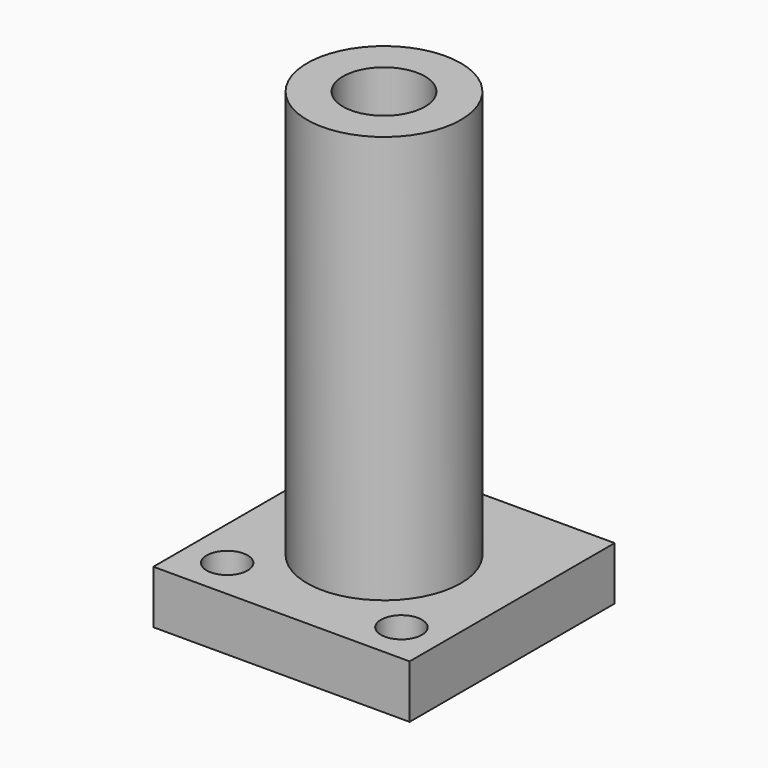
from build123d import *

# Parameters (mm, degrees)
CYLINDER033_R     = 2
CYLINDER033_DEPTH = 10
CYLINDER031_R     = 2
CYLINDER031_DEPTH = 10
CYLINDER030_R     = 2
CYLINDER030_DEPTH = 10
CYLINDER029_R     = 4
CYLINDER029_DEPTH = 60
CYLINDER034_R     = 7.5
CYLINDER034_DEPTH = 40
BOX006_W          = 25
BOX006_H          = 25
BOX006_DEPTH      = 5.2


with BuildPart() as cylinder033:
    # Cylinder033 → Cylinder033 (new body)
    with BuildSketch(Plane(origin=(21, 4, -2), x_dir=(1, 0, 0), z_dir=(0, 0, 1))):
        Circle(CYLINDER033_R)
    extrude(amount=CYLINDER033_DEPTH)


with BuildPart() as cylinder031:
    # Cylinder031 → Cylinder031 (new body)
    with BuildSketch(Plane(origin=(4, 21, -2), x_dir=(1, 0, 0), z_dir=(0, 0, 1))):
        Circle(CYLINDER031_R)
    extrude(amount=CYLINDER031_DEPTH)


with BuildPart() as cylinder030:
    # Cylinder030 → Cylinder030 (new body)
    with BuildSketch(Plane(origin=(4, 4, -2), x_dir=(1, 0, 0), z_dir=(0, 0, 1))):
        Circle(CYLINDER030_R)
    extrude(amount=CYLINDER030_DEPTH)


with BuildPart() as cylinder029:
    # Cylinder029 → Cylinder029 (new body)
    with BuildSketch(Plane(origin=(12.5, 12.5, -7), x_dir=(1, 0, 0), z_dir=(0, 0, 1))):
        Circle(CYLINDER029_R)
    extrude(amount=CYLINDER029_DEPTH)


with BuildPart() as cylinder034:
    # Cylinder034 → Cylinder034 (new body)
    with BuildSketch(Plane(origin=(12.5, 12.5, 5), x_dir=(1, 0, 0), z_dir=(0, 0, 1))):
        Circle(CYLINDER034_R)
    extrude(amount=CYLINDER034_DEPTH)


with BuildPart() as cut030:
    # Box006 → Box006 (new body)
    with BuildSketch(Plane.XY):
        with Locations((12.5, 12.5)):
            Rectangle(BOX006_W, BOX006_H)
    extrude(amount=BOX006_DEPTH)

    # Fusion007: union Cylinder034
    add(cylinder034.part)

    # Cut033: cut Cylinder029
    add(cylinder029.part, mode=Mode.SUBTRACT)

    # Cut032: cut Cylinder030
    add(cylinder030.part, mode=Mode.SUBTRACT)

    # Cut031: cut Cylinder031
    add(cylinder031.part, mode=Mode.SUBTRACT)

    # Cut030: cut Cylinder033
    add(cylinder033.part, mode=Mode.SUBTRACT)


solid = cut030.part
